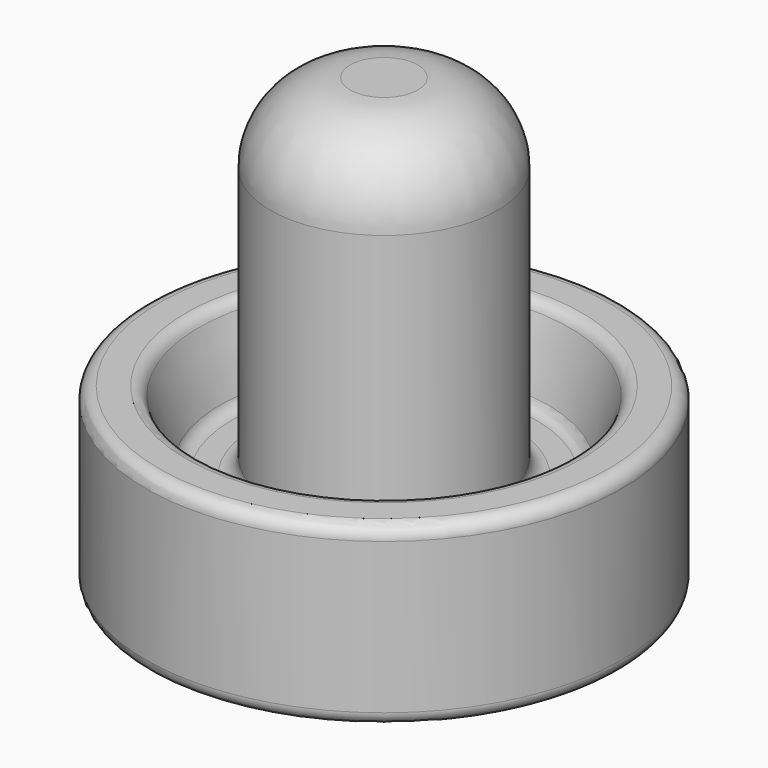
from build123d import *


with BuildPart() as f1:
    # F0 (on Right) → F1 (revolve)
    with BuildSketch(Plane.YZ):
        with BuildLine():
            Line((-21.429214, 0), (0, 0))
            Line((0, 0), (0, 42.777969))
            Line((0, 42.777969), (-3.227171, 42.777969))
            ThreePointArc((-3.227171, 42.777969), (-8.615325, 40.546123), (-10.847171, 35.157969))
            Line((-10.847171, 35.157969), (-10.847171, 10.86047))
            ThreePointArc((-10.847171, 10.86047), (-11.293541, 9.782839), (-12.371171, 9.33647))
            Line((-12.371171, 9.33647), (-14.463177, 9.33647))
            ThreePointArc((-14.463177, 9.33647), (-15.196262, 9.571237), (-15.65659, 10.188188))
            Line((-15.65659, 10.188188), (-17.671064, 16.048475))
            ThreePointArc((-17.671064, 16.048475), (-18.131391, 16.665426), (-18.864476, 16.900193))
            Line((-18.864476, 16.900193), (-21.429214, 16.900193))
            ThreePointArc((-21.429214, 16.900193), (-22.32155, 16.530575), (-22.691168, 15.638239))
            Line((-22.691168, 15.638239), (-22.691168, 1.261953))
            ThreePointArc((-22.691168, 1.261953), (-22.32155, 0.369618), (-21.429214, 0))
        make_face()
    revolve(axis=Axis((0, 0, 21.388984), (0, 0, 1)))


solid = f1.part
